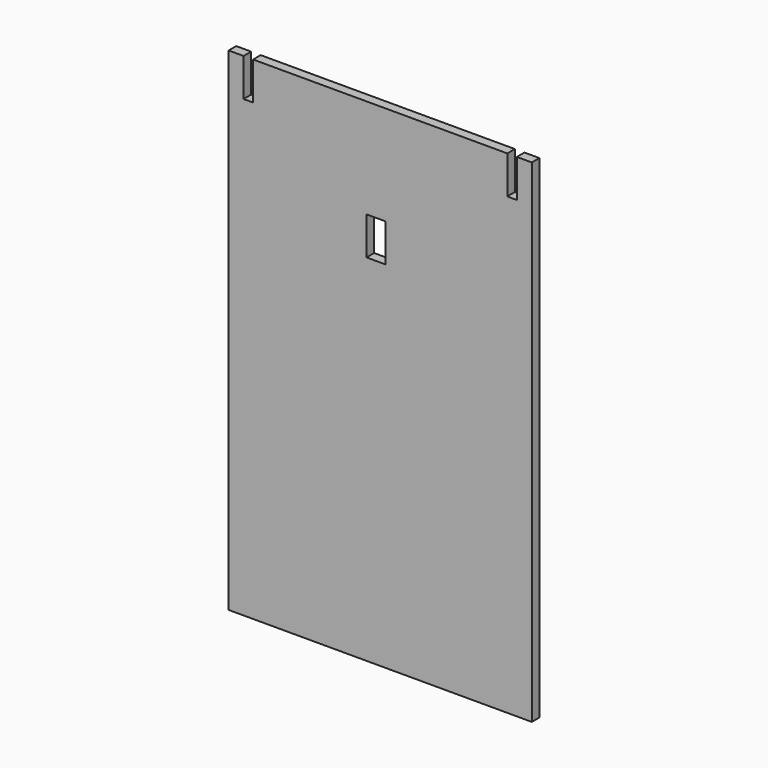
from build123d import *

# Parameters (mm, degrees)
F0_W     = 53.34
F0_H     = 73.66
F0_W_2   = 6.35
F0_H_2   = 12.7
F1_DEPTH = 3.175


with BuildPart() as f1:
    # F0 (on Front) → F1 (new body)
    with BuildSketch(Plane.XZ):
        Polygon((-86.761358, 126.414508), (-91.761358, 126.414508), (-91.761358, -38.685492), (9.838642, -38.685492), (9.838642, 126.414508), (4.838642, 126.414508), (4.838642, 113.714508), (1.638242, 113.714508), (1.638242, 126.414508), (-83.560958, 126.414508), (-83.560958, 113.714508), (-86.761358, 113.714508), align=None)
        with Locations((-41.98038, 29.224732)):
            Rectangle(F0_W, F0_H, mode=Mode.SUBTRACT)
        with Locations((-42.371655, 86.725142)):
            Rectangle(F0_W_2, F0_H_2, mode=Mode.SUBTRACT)
        with Locations((-41.98038, 29.224732)):
            Rectangle(F0_W, F0_H)
    extrude(amount=-F1_DEPTH)


solid = f1.part
